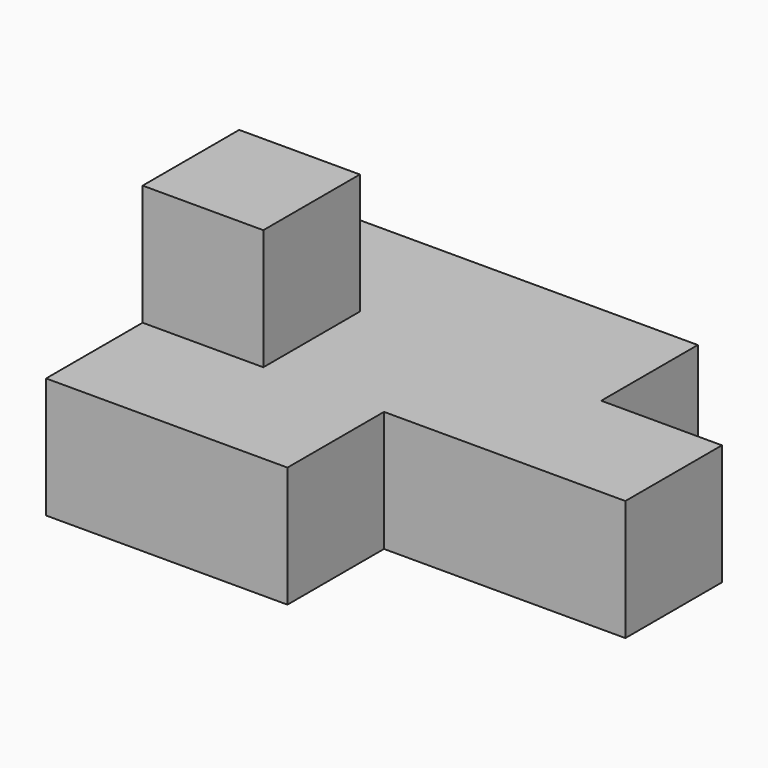
from build123d import *

# Parameters (mm, degrees)
F0_W     = 5
F0_H     = 5
F0_W_2   = 10
F1_DEPTH = 15
F2_DEPTH = 5
F3_W     = 5
F3_H     = 5
F4_DEPTH = 5
F5_W     = 10
F5_H     = 5
F6_DEPTH = 5
F5_W_2   = 5
F7_DEPTH = 5


with BuildPart() as f1:
    # F0 (on Front) → F1 (new body)
    with BuildSketch(Plane.XZ):
        with Locations((2.5, 2.5)):
            Rectangle(F0_W, F0_H)
        with Locations((7.5, 2.5)):
            Rectangle(F0_W, F0_H)
        with Locations((2.5, 7.5)):
            Rectangle(F0_W, F0_H)
        with Locations((15, 2.5)):
            Rectangle(F0_W_2, F0_H)
    extrude(amount=F1_DEPTH)

    # F0 (on Front) → F2 (cut)
    with BuildSketch(Plane.XZ):
        with Locations((2.5, 7.5)):
            Rectangle(F0_W, F0_H)
    extrude(amount=F2_DEPTH, mode=Mode.SUBTRACT)

    # F3 (on face) → F4 (cut)
    with BuildSketch(Plane.YZ.offset(5)):
        with Locations((-12.5, 7.5)):
            Rectangle(F3_W, F3_H)
    extrude(amount=-F4_DEPTH, mode=Mode.SUBTRACT)

    # F5 (on face) → F6 (cut)
    with BuildSketch(Plane.XY.offset(5)):
        with Locations((15, -12.5)):
            Rectangle(F5_W, F5_H)
    extrude(amount=-F6_DEPTH, mode=Mode.SUBTRACT)

    # F5 (on face) → F7 (cut)
    with BuildSketch(Plane.XY.offset(5)):
        with Locations((17.5, -2.5)):
            Rectangle(F5_W_2, F5_H)
    extrude(amount=-F7_DEPTH, mode=Mode.SUBTRACT)


solid = f1.part
